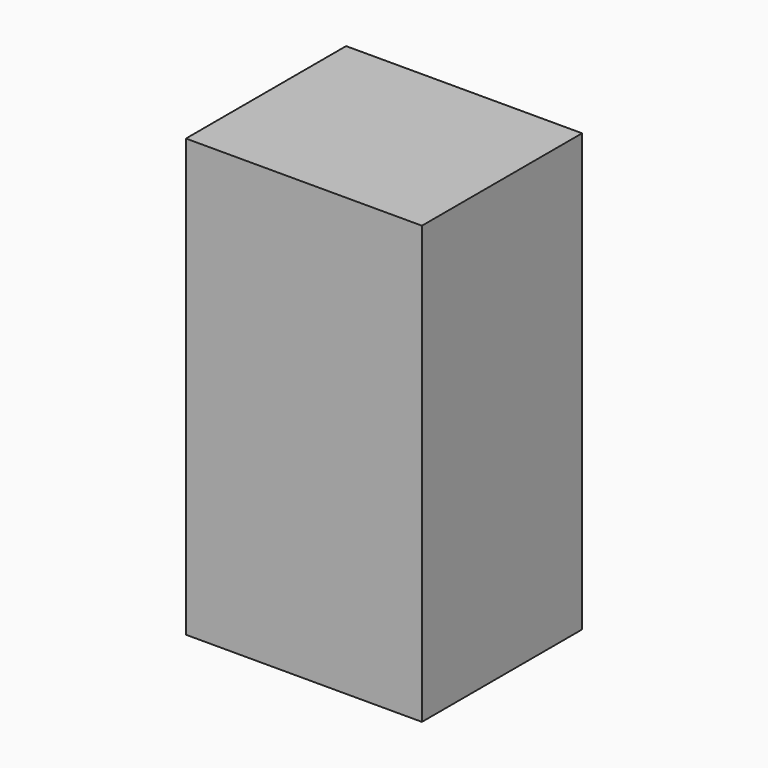
from build123d import *

# Parameters (mm, degrees)
F1_DEPTH = 129.926726
F3_DEPTH = 69.557719


with BuildPart() as f1:
    # F0 (on Top) → F1 (new body)
    with BuildSketch(Plane.XY):
        Polygon((0, 68.990737), (0, 9.448737), (70.190594, 9.448737), (70.190594, 68.990737), (44.694006, 68.990737), (24.746686, 68.990737), align=None)
    extrude(amount=F1_DEPTH)

    # F2 (on face) → F3 (join)
    with BuildSketch(Plane.YZ.offset(70.190594)):
        Polygon((23.553237, 129.926726), (9.448737, 97.692437), (54.731593, 0), (68.990737, 84.814429), align=None)
    extrude(amount=-F3_DEPTH)


solid = f1.part
